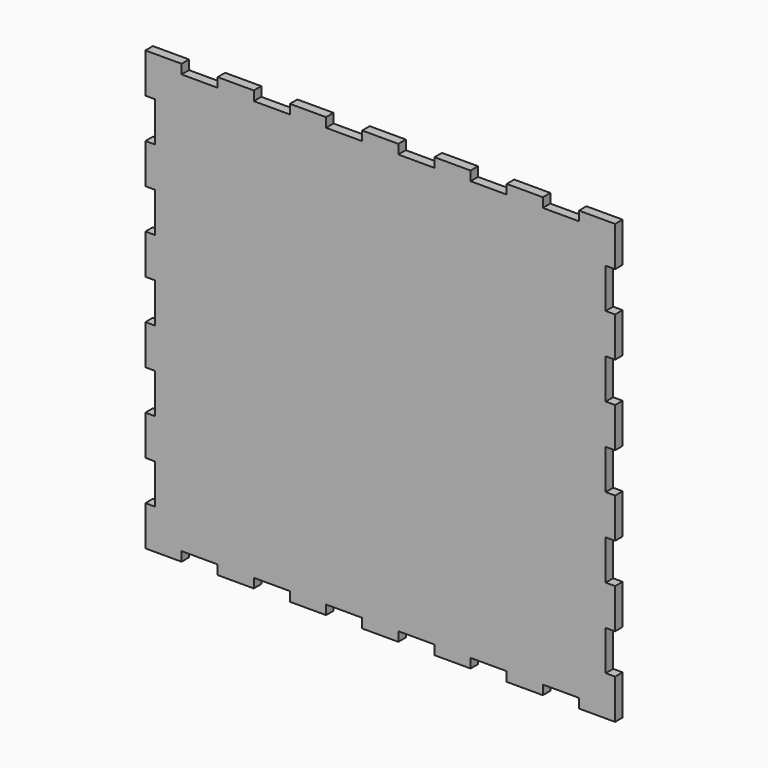
from build123d import *

# Parameters (mm, degrees)
F1_DEPTH = 3


with BuildPart() as f1:
    # F0 (on Front) → F1 (new body)
    with BuildSketch(Plane.XZ):
        Polygon((75, 57.272727), (75, 70), (63.461538, 70), (63.461538, 67), (51.923077, 67), (51.923077, 70), (40.384615, 70), (40.384615, 67), (28.846154, 67), (28.846154, 70), (17.307692, 70), (17.307692, 67), (5.769231, 67), (5.769231, 70), (-5.769231, 70), (-5.769231, 67), (-17.307692, 67), (-17.307692, 70), (-28.846154, 70), (-28.846154, 67), (-40.384615, 67), (-40.384615, 70), (-51.923077, 70), (-51.923077, 67), (-63.461538, 67), (-63.461538, 70), (-75, 70), (-75, 57.272727), (-72, 57.272727), (-72, 44.545455), (-75, 44.545455), (-75, 31.818182), (-72, 31.818182), (-72, 19.090909), (-75, 19.090909), (-75, 6.363636), (-72, 6.363636), (-72, -6.363636), (-75, -6.363636), (-75, -19.090909), (-72, -19.090909), (-72, -31.818182), (-75, -31.818182), (-75, -44.545455), (-72, -44.545455), (-72, -57.272727), (-75, -57.272727), (-75, -70), (-63.461538, -70), (-63.461538, -67), (-51.923077, -67), (-51.923077, -70), (-40.384615, -70), (-40.384615, -67), (-28.846154, -67), (-28.846154, -70), (-17.307692, -70), (-17.307692, -67), (-5.769231, -67), (-5.769231, -70), (5.769231, -70), (5.769231, -67), (17.307692, -67), (17.307692, -70), (28.846154, -70), (28.846154, -67), (40.384615, -67), (40.384615, -70), (51.923077, -70), (51.923077, -67), (63.461538, -67), (63.461538, -70), (75, -70), (75, -57.272727), (72, -57.272727), (72, -44.545455), (75, -44.545455), (75, -31.818182), (72, -31.818182), (72, -19.090909), (75, -19.090909), (75, -6.363636), (72, -6.363636), (72, 6.363636), (75, 6.363636), (75, 19.090909), (72, 19.090909), (72, 31.818182), (75, 31.818182), (75, 44.545455), (72, 44.545455), (72, 57.272727), align=None)
    extrude(amount=F1_DEPTH)


solid = f1.part
